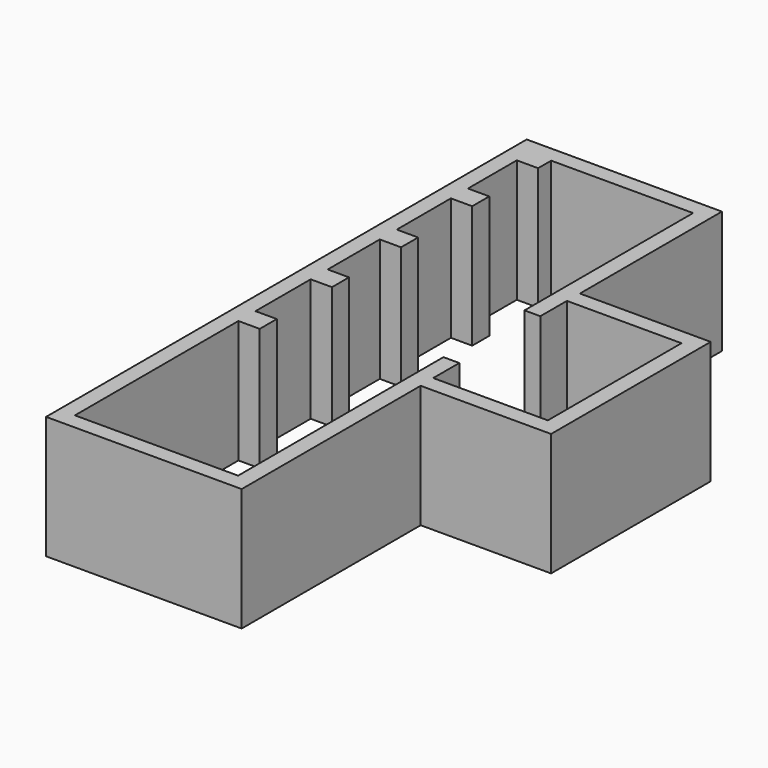
from build123d import *

# Parameters (mm, degrees)
F1_DEPTH = 2286


with BuildPart() as f1:
    # F0 (on Top) → F1 (new body)
    with BuildSketch(Plane.XY):
        Polygon((298.45, 298.45), (-3336.925, 298.45), (-3336.925, -10887.075), (304.8, -10887.075), (304.8, -6721.475), (2733.675, -6721.475), (2733.675, -3006.725), (298.45, -3006.725), align=None)
        Polygon((-2641.6, 0), (0, 0), (0, -3924.3), (295.275, -3924.3), (295.275, -3305.175), (2428.875, -3305.175), (2428.875, -6416.675), (295.275, -6416.675), (295.275, -5810.25), (0, -5810.25), (0, -10588.625), (-3038.475, -10588.625), (-3038.475, -6783.3875), (-2641.6, -6783.3875), (-2641.6, -6386.5125), (-3038.475, -6386.5125), (-3038.475, -5102.225), (-2641.6, -5102.225), (-2641.6, -4705.35), (-3038.475, -4705.35), (-3038.475, -3494.0875), (-2641.6, -3494.0875), (-2641.6, -3097.2125), (-3038.475, -3097.2125), (-3038.475, -1838.325), (-2641.6, -1838.325), (-2641.6, -1441.45), (-3038.475, -1441.45), (-3038.475, -304.8), (-2641.6, -304.8), align=None, mode=Mode.SUBTRACT)
    extrude(amount=F1_DEPTH)


solid = f1.part
